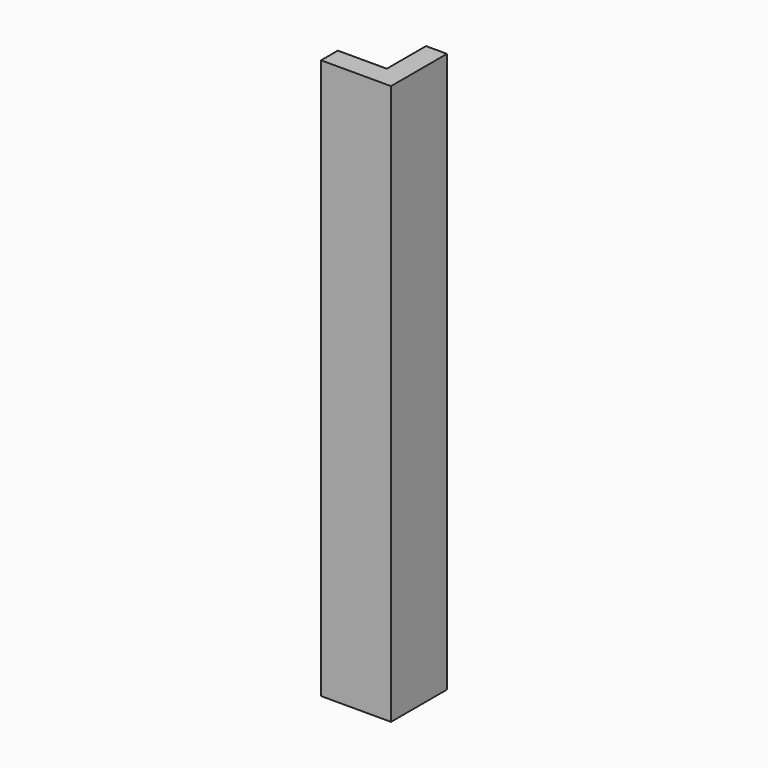
from build123d import *

# Parameters (mm, degrees)
F0_W     = 63.5
F0_H     = 508
F1_DEPTH = 19.05
F2_W     = 44.45
F2_H     = 508
F3_DEPTH = 19.05


with BuildPart() as f1:
    # F0 (on Front) → F1 (new body)
    with BuildSketch(Plane.XZ):
        Rectangle(F0_W, F0_H)
    extrude(amount=-F1_DEPTH)

    # F2 (on face) → F3 (join)
    with BuildSketch(Plane.YZ.offset(31.75)):
        with Locations((41.275, 0)):
            Rectangle(F2_W, F2_H)
    extrude(amount=-F3_DEPTH)


solid = f1.part
